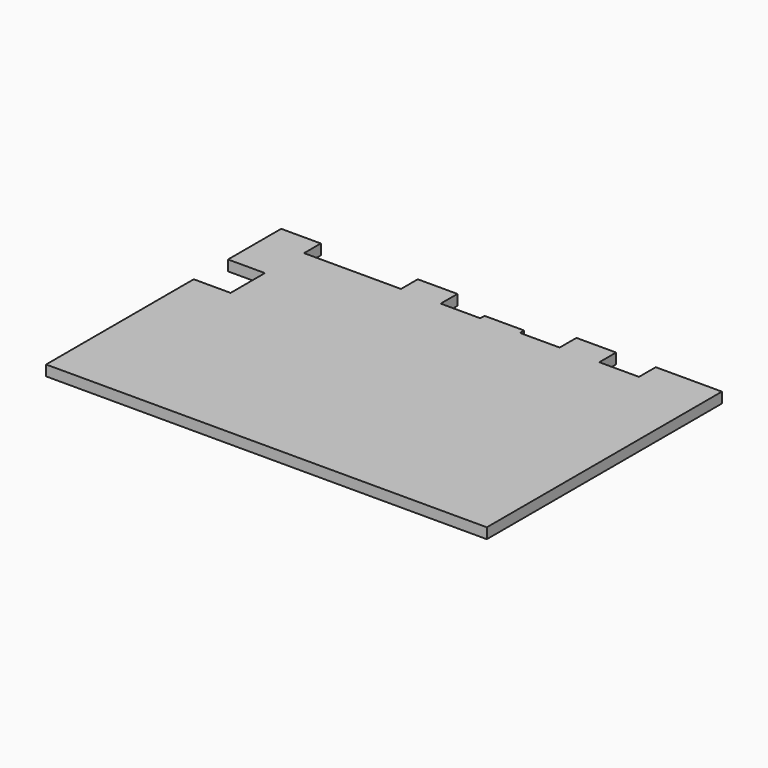
from build123d import *

# Parameters (mm, degrees)
F1_DEPTH = 6.35


with BuildPart() as f1:
    # F0 (on Top) → F1 (new body)
    with BuildSketch(Plane.XY):
        Polygon((0, 111.664653), (0, 0), (266.7, 0), (266.7, 177.8), (226.670325, 177.8), (226.670325, 165.1), (202.670325, 165.1), (202.670325, 177.8), (178.670325, 177.8), (178.670325, 165.1), (154.670325, 165.1), (154.670325, 168.275), (130.670325, 168.275), (130.670325, 165.1), (106.670325, 165.1), (106.670325, 177.8), (82.670325, 177.8), (82.670325, 165.1), (24, 165.1), (24, 177.8), (0, 177.8), (0, 137.60826), (22.315739, 137.60826), (22.315739, 111.664653), align=None)
    extrude(amount=F1_DEPTH)


solid = f1.part
